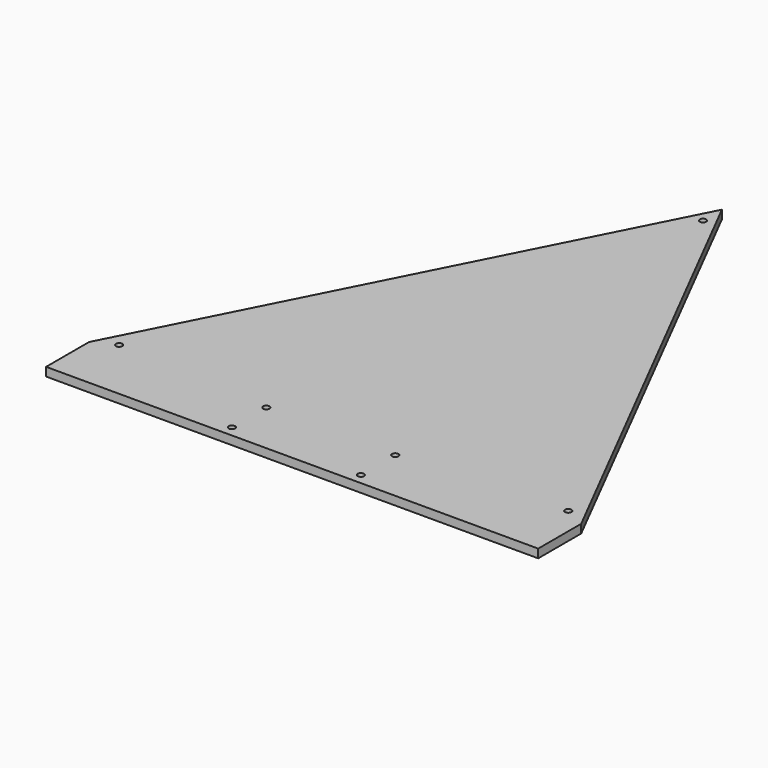
from build123d import *

# Parameters (mm, degrees)
F1_DEPTH = 4
F2_D     = 3


with BuildPart() as f1:
    # F0 (on Top) → F1 (new body)
    with BuildSketch(Plane.XY):
        Polygon((0, 0), (-114.5, 225), (-229, 0), (-229, -25), (0, -25), align=None)
    extrude(amount=F1_DEPTH)

    # F2 (through all)
    with Locations(Plane(origin=(0, 0, 0), x_dir=(1, 0, 0), z_dir=(0, 0, -1))):
        with Locations((-114.5, -214), (-219, -5), (-146.5, 0), (-146.5, 20), (-86.5, 20), (-86.5, 0), (-10, -5)):
            Hole(F2_D / 2)


solid = f1.part
